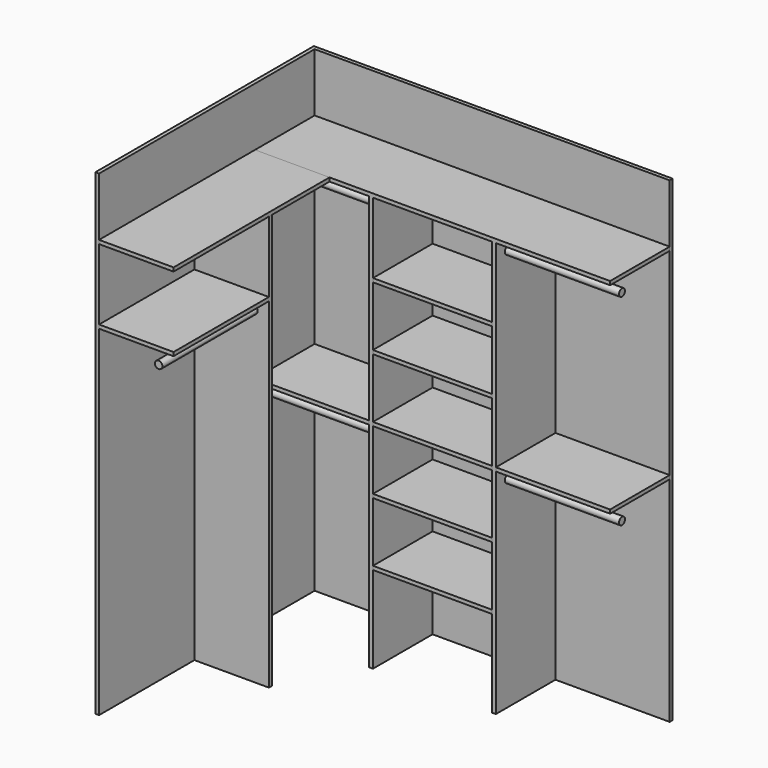
from build123d import *

# Parameters (mm, degrees)
F0_W      = 1816.1
F0_H      = 2438.4
F1_DEPTH  = 19.05
F2_W      = 1397
F2_H      = 2438.4
F3_DEPTH  = 19.05
F4_R      = 19.05
F4_W      = 381
F4_H      = 19.05
F5_DEPTH  = 584.2
F6_W      = 19.05
F6_H      = 2120.9
F7_DEPTH  = 381
F8_W      = 609.6
F8_H      = 19.05
F8_W_2    = 584.2
F9_DEPTH  = 381
F10_W     = 381
F10_H     = 19.05
F11_DEPTH = 996.95
F12_W     = 609.6
F12_H     = 19.05
F13_DEPTH = 381
F14_R     = 19.05
F15_DEPTH = 609.6
F16_R     = 19.05
F17_DEPTH = 584.2


with BuildPart() as f1:
    # F0 (on Front) → F1 (new body)
    with BuildSketch(Plane.XZ):
        with Locations((908.05, 1219.2)):
            Rectangle(F0_W, F0_H)
    extrude(amount=F1_DEPTH)

    # F2 (on face) → F3 (join)
    with BuildSketch(Plane(origin=(0, 0, 0), x_dir=(0, -1, 0), z_dir=(-1, 0, 0))):
        with Locations((698.5, 1219.2)):
            Rectangle(F2_W, F2_H)
    extrude(amount=F3_DEPTH)


with BuildPart() as f5:
    # F4 (on face) → F5 (new body)
    with BuildSketch(Plane.YZ):
        with Locations((-323.85, 2057.4)):
            Circle(F4_R)
        with Locations((-323.85, 1028.7)):
            Circle(F4_R)
        with Locations((-209.55, 1101.725)):
            Rectangle(F4_W, F4_H)
    extrude(amount=F5_DEPTH)


with BuildPart() as f7:
    # F6 (on face) → F7 (new body)
    with BuildSketch(Plane.XZ.offset(19.05)):
        with Locations((593.725, 1060.45)):
            Rectangle(F6_W, F6_H)
        Polygon((0, 2120.9), (584.2, 2120.9), (603.25, 2120.9), (1212.85, 2120.9), (1231.9, 2120.9), (1816.1, 2120.9), (1816.1, 2139.95), (0, 2139.95), align=None)
        with Locations((1222.375, 1060.45)):
            Rectangle(F6_W, F6_H)
    extrude(amount=F7_DEPTH)

    # F16 (on face) → F17 (join, through all)
    with BuildSketch(Plane.YZ.offset(1231.9)):
        with Locations((-323.85, 2057.4)):
            Circle(F16_R)
        with Locations((-323.85, 1028.7)):
            Circle(F16_R)
    extrude(amount=F17_DEPTH)


with BuildPart() as f9:
    # F8 (on face) → F9 (new body)
    with BuildSketch(Plane.XZ.offset(19.05)):
        with Locations((908.05, 1101.725)):
            Rectangle(F8_W, F8_H)
        with Locations((908.05, 777.875)):
            Rectangle(F8_W, F8_H)
        with Locations((908.05, 1425.575)):
            Rectangle(F8_W, F8_H)
        with Locations((908.05, 1749.425)):
            Rectangle(F8_W, F8_H)
        with Locations((908.05, 454.025)):
            Rectangle(F8_W, F8_H)
        with Locations((1524, 1101.725)):
            Rectangle(F8_W_2, F8_H)
    extrude(amount=F9_DEPTH)


with BuildPart() as f11:
    # F10 (on face) → F11 (new body, through all)
    with BuildSketch(Plane.XZ.offset(400.05)):
        with Locations((190.5, 2130.425)):
            Rectangle(F10_W, F10_H)
    extrude(amount=F11_DEPTH)


with BuildPart() as f13:
    # F12 (on face) → F13 (new body)
    with BuildSketch(Plane.YZ):
        Polygon((-787.4, 1739.9), (-787.4, 0), (-768.35, 0), (-768.35, 2120.9), (-787.4, 2120.9), (-787.4, 1758.95), align=None)
        with Locations((-1092.2, 1749.425)):
            Rectangle(F12_W, F12_H)
    extrude(amount=F13_DEPTH)

    # F14 (on face) → F15 (join, through all)
    with BuildSketch(Plane.XZ.offset(787.4)):
        with Locations((304.8, 1676.4)):
            Circle(F14_R)
    extrude(amount=F15_DEPTH)


solid = Compound([f1.part, f5.part, f7.part, f9.part, f11.part, f13.part])
